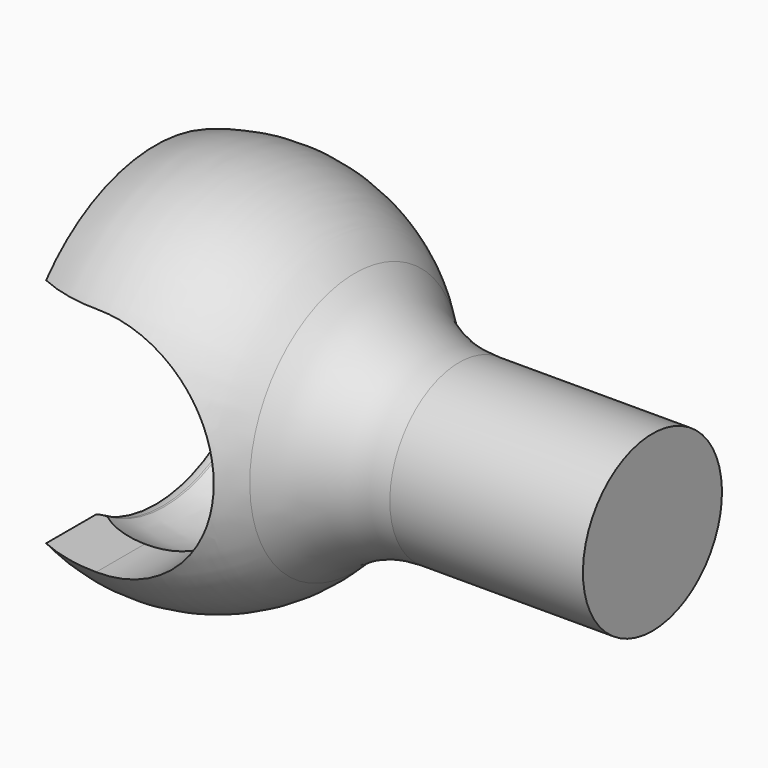
from build123d import *

# Parameters (mm, degrees)
F3_DEPTH = 12.5
F4_R     = 5


with BuildPart() as f1:
    # F0 (on Front) → F1 (revolve)
    with BuildSketch(Plane.XZ):
        with BuildLine():
            Line((0, -3), (0, 0))
            Line((0, 0), (-9.95, 0))
            ThreePointArc((-9.95, 0), (-12.156265, -4.173209), (-16.847295, -4.7))
            Line((-16.847295, -4.7), (-16.912947, -4.7))
            ThreePointArc((-16.912947, -4.7), (-17.040744, -4.710788), (-17.164925, -4.742846))
            Line((-17.164925, -4.742846), (-17.164925, -6.181877))
            ThreePointArc((-17.164925, -6.181877), (-12.576015, -6.084965), (-9.177415, -3))
            Line((-9.177415, -3), (0, -3))
        make_face()
    revolve(axis=Axis((-4.975, 0, 0), (-1, 0, 0)))

    # F2 (on Front) → F3 (cut, symmetric)
    with BuildSketch(Plane.XZ):
        with BuildLine():
            Line((-18.563313, -3.999534), (-15.06104, -3.999534))
            ThreePointArc((-15.06104, -3.999534), (-11.000091, -0.026907), (-15.007228, 3.999993))
            Line((-15.007228, 3.999993), (-18.577756, 3.993542))
            Line((-18.577756, 3.993542), (-18.563313, -3.999534))
        make_face()
    extrude(amount=F3_DEPTH, both=True, mode=Mode.SUBTRACT)

    # F4
    f4_edges = [f1.edges().sort_by_distance(p)[0] for p in [
        (-9.177415, 0, 3),
    ]]
    fillet(f4_edges, radius=F4_R)


solid = f1.part
